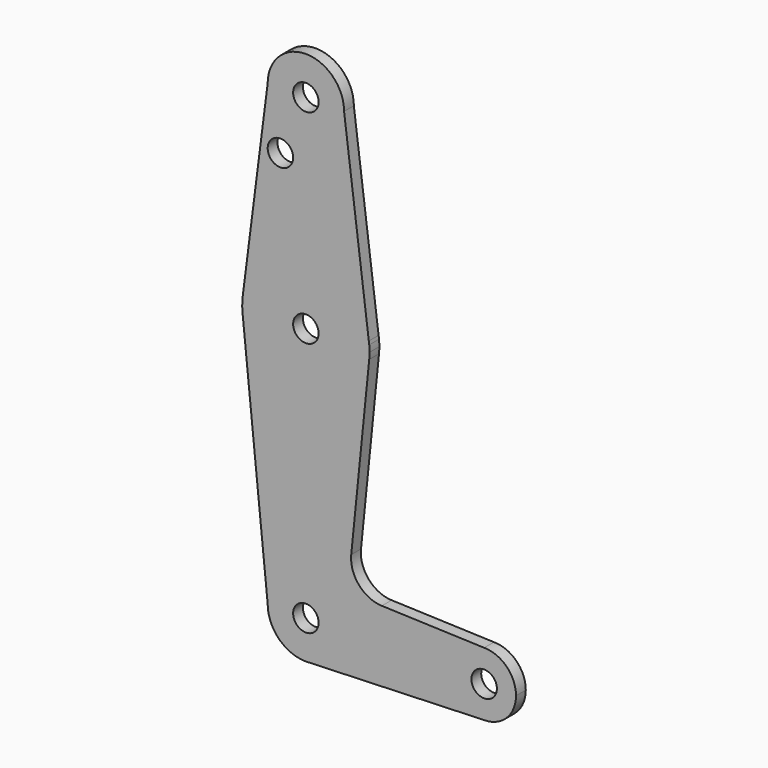
from build123d import *

# Parameters (mm, degrees)
F0_R     = 3.175
F1_DEPTH = 3.048


with BuildPart() as f1:
    # F0 (on Front) → F1 (new body)
    with BuildSketch(Plane.XZ):
        with BuildLine():
            ThreePointArc((0.6794904459, -73.0007324841), (6.9712901065, -69.9905114784), (9.525, -63.5))
            ThreePointArc((9.525, -63.5), (0, -53.975), (-9.525, -63.5))
            ThreePointArc((-9.525, -63.5), (-6.7351920908, -70.2351920908), (0, -73.025))
            Line((0, -73.025), (0.6794904459, -73.0007324841))
        make_face()
        with Locations((0, -63.5)):
            Circle(F0_R, mode=Mode.SUBTRACT)
        with BuildLine():
            ThreePointArc((-9.525, -63.5), (0, -53.975), (9.525, -63.5))
            Line((9.525, -63.5), (36.5125, -63.5))
            ThreePointArc((36.5125, -63.5), (38.8373399243, -57.8873399243), (44.45, -55.5625))
            Line((44.45, -55.5625), (18.9329889534, -54.6511781769))
            ThreePointArc((18.9329889534, -54.6511781769), (13.22446249, -51.9308158781), (11.3070069952, -45.9049541269))
            Line((11.3070069952, -45.9049541269), (15.7942028036, -1.5996195795))
            ThreePointArc((15.7942028036, -1.5996195795), (0, -15.875), (-15.7942028036, -1.5996195795))
            Line((-15.7942028036, -1.5996195795), (-9.525, -63.5))
        make_face()
        with BuildLine():
            Line((36.5125, -63.5), (9.525, -63.5))
            ThreePointArc((9.525, -63.5), (6.9712901065, -69.9905114784), (0.6794904459, -73.0007324841))
            Line((0.6794904459, -73.0007324841), (44.45, -71.4375))
            ThreePointArc((44.45, -71.4375), (38.8373399243, -69.1126600757), (36.5125, -63.5))
        make_face()
        with BuildLine():
            ThreePointArc((44.45, -55.5625), (38.8373399243, -57.8873399243), (36.5125, -63.5))
            ThreePointArc((36.5125, -63.5), (38.8373399243, -69.1126600757), (44.45, -71.4375))
            ThreePointArc((44.45, -71.4375), (50.0626600757, -69.1126600757), (52.3875, -63.5))
            ThreePointArc((52.3875, -63.5), (50.0626600757, -57.8873399243), (44.45, -55.5625))
        make_face()
        with BuildLine():
            ThreePointArc((47.625, -63.5), (44.45, -66.675), (41.275, -63.5))
            ThreePointArc((41.275, -63.5), (44.45, -60.325), (47.625, -63.5))
        make_face(mode=Mode.SUBTRACT)
        with BuildLine():
            ThreePointArc((0, -73.025), (0.3399618281, -73.0189311877), (0.6794904459, -73.0007324841))
            Line((0.6794904459, -73.0007324841), (0, -73.025))
        make_face()
        with BuildLine():
            ThreePointArc((-15.7474569047, 2.0082893304), (-15.873667691, 0.2056672947), (-15.7942028036, -1.5996195795))
            ThreePointArc((-15.7942028036, -1.5996195795), (0, -15.875), (15.7942028036, -1.5996195795))
            ThreePointArc((15.7942028036, -1.5996195795), (15.8547878338, -0.8008294116), (15.875, 0))
            ThreePointArc((15.875, 0), (15.8547878338, 0.8008294116), (15.7942028036, 1.5996195795))
            Line((15.7942028036, 1.5996195795), (15.6906573318, 2.4122391042))
            ThreePointArc((15.6906573318, 2.4122391042), (-0.203961768, 15.873689697), (-15.7474569047, 2.0082893304))
        make_face()
        Circle(F0_R, mode=Mode.SUBTRACT)
        with BuildLine():
            Line((-9.525, 50.8), (-15.7474569047, 2.0082893304))
            ThreePointArc((-15.7474569047, 2.0082893304), (-0.203961768, 15.873689697), (15.6906573318, 2.4122391042))
            Line((15.6906573318, 2.4122391042), (9.525, 50.8))
            ThreePointArc((9.525, 50.8), (0, 41.275), (-9.525, 50.8))
        make_face()
        with Locations((-6.35, 36.5252)):
            Circle(F0_R, mode=Mode.SUBTRACT)
        with BuildLine():
            ThreePointArc((15.7942028036, 1.5996195795), (15.7476725918, 2.0065973539), (15.6906573318, 2.4122391042))
            Line((15.6906573318, 2.4122391042), (15.7942028036, 1.5996195795))
        make_face()
        with BuildLine():
            ThreePointArc((9.525, 50.8), (0, 60.325), (-9.525, 50.8))
            ThreePointArc((-9.525, 50.8), (0, 41.275), (9.525, 50.8))
        make_face()
        with Locations((0, 50.8)):
            Circle(F0_R, mode=Mode.SUBTRACT)
    extrude(amount=F1_DEPTH)


solid = f1.part
